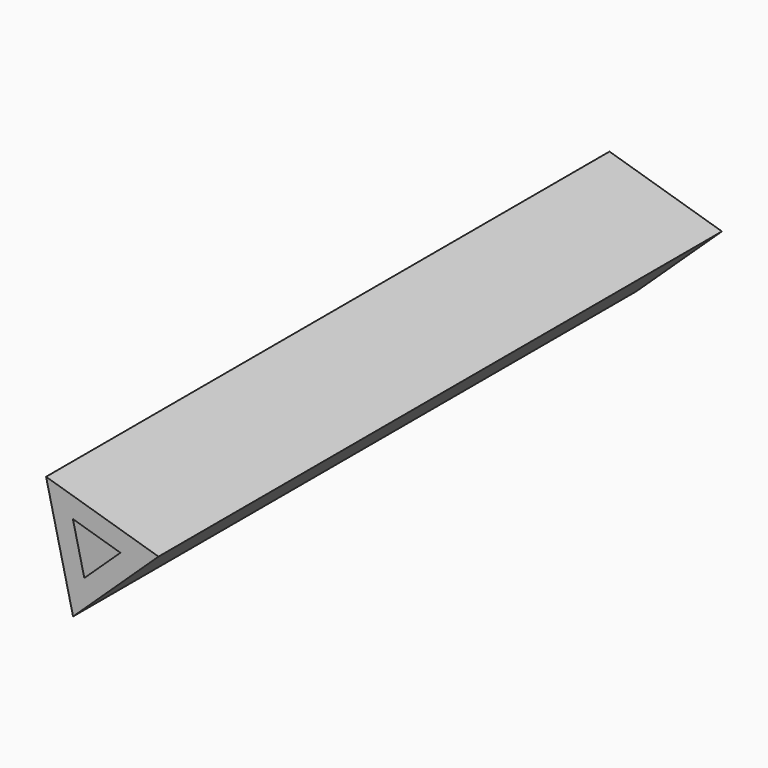
from build123d import *

# Parameters (mm, degrees)
F1_DEPTH = 228.6
F2_T     = -6.35


with BuildPart() as f1:
    # F0 (on Front) → F1 (new body)
    with BuildSketch(Plane.XZ):
        Polygon((21.407872, 5.056975), (-15.083405, 16.011274), (-6.324467, -21.068249), align=None)
    extrude(amount=F1_DEPTH)

    # F2
    f2_openings = [f1.faces().sort_by_distance(p)[0] for p in [
        (0, -228.6, 0),
    ]]
    offset(amount=F2_T, openings=f2_openings)


solid = f1.part
